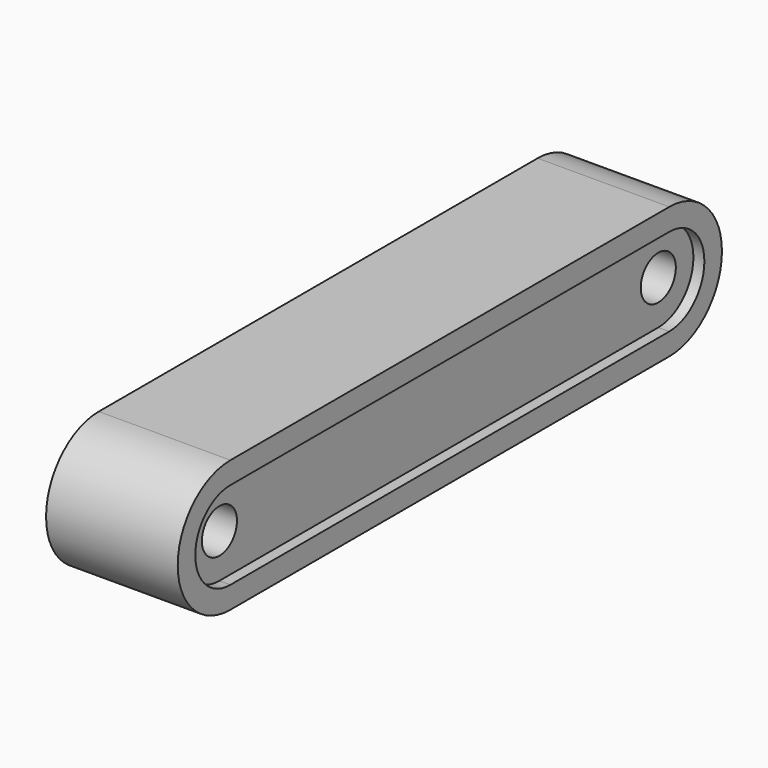
from build123d import *

# Parameters (mm, degrees)
F0_W     = 250
F0_H     = 10
F1_DEPTH = 60
F2_START = 5
F0_H_2   = 40
F2_DEPTH = 50
F3_R     = 10
F4_DEPTH = 60.001


with BuildPart() as f1:
    # F0 (on Right) → F1 (new body)
    with BuildSketch(Plane.YZ):
        with Locations((0, 25)):
            Rectangle(F0_W, F0_H)
        with BuildLine():
            Line((-125, 20), (-125, 30))
            ThreePointArc((-125, 30), (-155, 0), (-125, -30))
            Line((-125, -30), (-125, -20))
            ThreePointArc((-125, -20), (-145, 0), (-125, 20))
        make_face()
        with BuildLine():
            ThreePointArc((125, -30), (155, 0), (125, 30))
            Line((125, 30), (125, 20))
            ThreePointArc((125, 20), (145, 0), (125, -20))
            Line((125, -20), (125, -30))
        make_face()
        with Locations((0, -25)):
            Rectangle(F0_W, F0_H)
    extrude(amount=F1_DEPTH)

    # F0 (on Right) → F2 (join)
    with BuildSketch(Plane.YZ.offset(F2_START)):
        Rectangle(F0_W, F0_H_2)
        with BuildLine():
            ThreePointArc((125, -20), (145, 0), (125, 20))
            Line((125, 20), (125, -20))
        make_face()
        with BuildLine():
            Line((-125, -20), (-125, 20))
            ThreePointArc((-125, 20), (-145, 0), (-125, -20))
        make_face()
    extrude(amount=F2_DEPTH)

    # F3 (on Right) → F4 (cut, through all)
    with BuildSketch(Plane.YZ):
        with Locations((-125, 0)):
            Circle(F3_R)
        with Locations((125, 0)):
            Circle(F3_R)
    extrude(amount=F4_DEPTH, mode=Mode.SUBTRACT)


solid = f1.part
